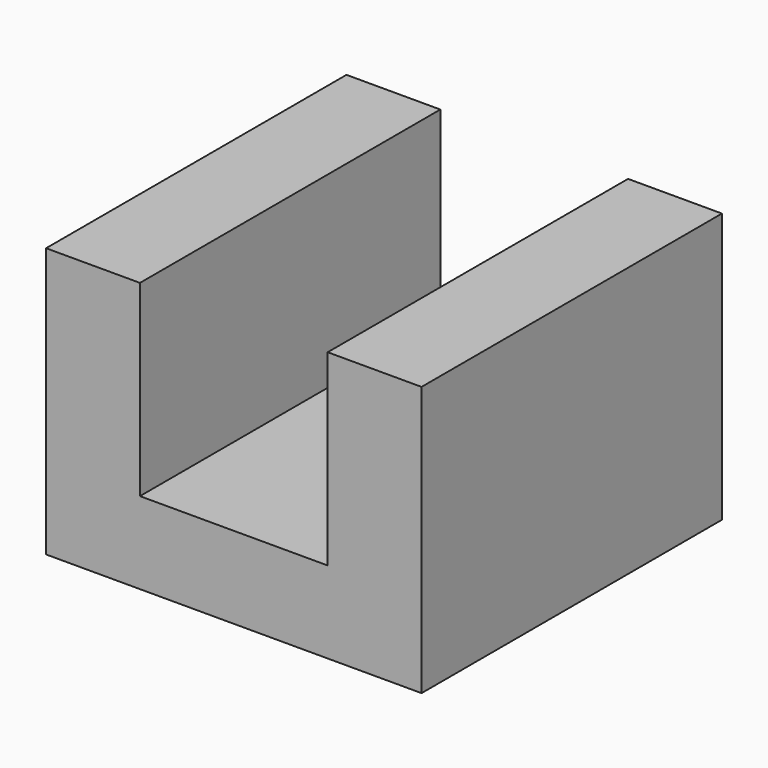
from build123d import *

# Parameters (mm, degrees)
F0_W     = 50.8
F0_H     = 50.8
F1_DEPTH = 50.8
F3_DEPTH = 50.8


with BuildPart() as f1:
    # F0 (on Front) → F1 (new body)
    with BuildSketch(Plane.XZ):
        with Locations((-25.4, 25.4)):
            Rectangle(F0_W, F0_H)
    extrude(amount=F1_DEPTH)

    # F2 (on face) → F3 (intersect)
    with BuildSketch(Plane.XZ.offset(50.8)):
        Polygon((-38.1, 50.8), (-50.8, 50.8), (-50.8, 14.321598), (0, 14.321598), (0, 50.8), (-12.7, 50.8), (-12.7, 25.4), (-38.1, 25.4), align=None)
    extrude(amount=-F3_DEPTH, mode=Mode.INTERSECT)


solid = f1.part
